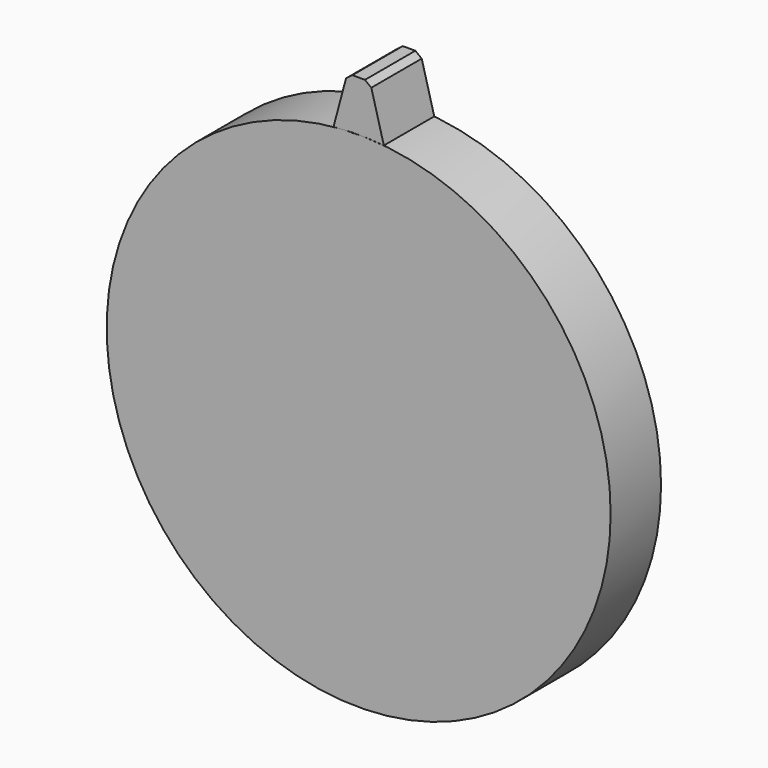
from build123d import *

# Parameters (mm, degrees)
F0_R     = 100
F1_DEPTH = 25
F3_DEPTH = 25
F4_SIZE  = 2


with BuildPart() as f1:
    # F0 (on Front) → F1 (new body)
    with BuildSketch(Plane.XZ):
        Circle(F0_R)
    extrude(amount=F1_DEPTH)


with BuildPart() as f3:
    # F2 (on face) → F3 (new body)
    with BuildSketch(Plane.XZ.offset(25)):
        with BuildLine():
            Line((4.5, 120), (-4.5, 120))
            Line((-4.5, 120), (-9.99311, 99.499436))
            ThreePointArc((-9.99311, 99.499436), (0, 100), (9.99311, 99.499436))
            Line((9.99311, 99.499436), (4.5, 120))
        make_face()
    extrude(amount=-F3_DEPTH)

    # F4
    f4_edges = [f3.edges().sort_by_distance(p)[0] for p in [
        (4.5, -12.5, 120),
        (-4.5, -12.5, 120),
    ]]
    chamfer(f4_edges, length=F4_SIZE)


solid = Compound([f1.part, f3.part])
